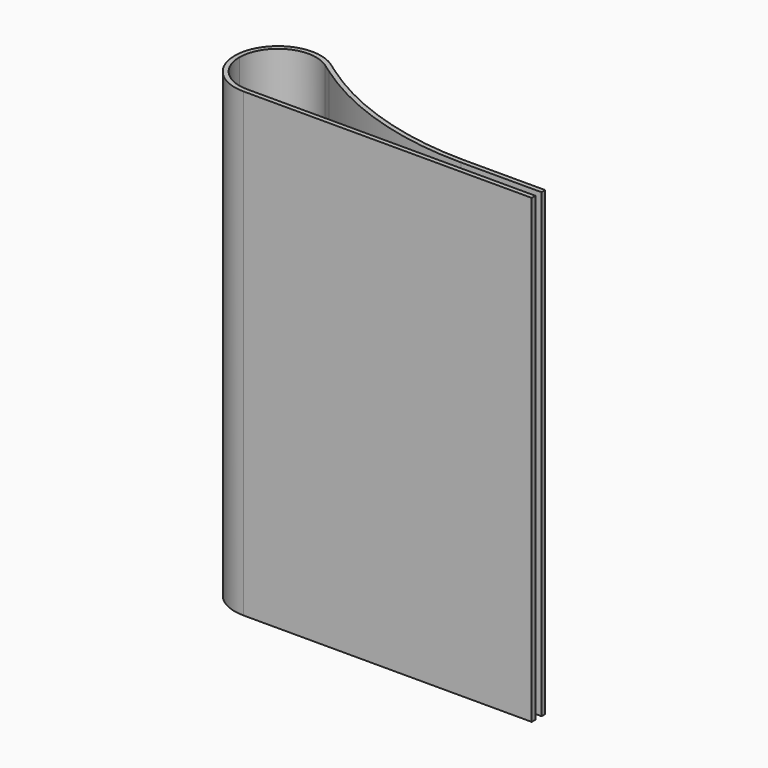
from build123d import *

# Parameters (mm, degrees)
F1_DEPTH = 76.2


with BuildPart() as f1:
    # F0 (on Top) → F1 (new body)
    with BuildSketch(Plane.XY):
        with BuildLine():
            Line((0, -0.762), (0, 0))
            Line((0, 0), (-47.625, 0))
            ThreePointArc((-47.625, 0), (-52.115128, 1.859872), (-53.975, 6.35))
            ThreePointArc((-53.975, 6.35), (-50.553519, 11.984384), (-43.976172, 11.546976))
            Line((-43.976172, 11.546976), (-42.47671, 10.494194))
            ThreePointArc((-42.47671, 10.494194), (-28.592771, 3.63091), (-13.286089, 1.27))
            Line((-13.286089, 1.27), (0, 1.27))
            Line((0, 1.27), (0, 2.032))
            Line((0, 2.032), (-13.286089, 2.032))
            ThreePointArc((-13.286089, 2.032), (-28.363171, 4.357496), (-42.038851, 11.117831))
            Line((-42.038851, 11.117831), (-43.538313, 12.170613))
            ThreePointArc((-43.538313, 12.170613), (-50.904941, 12.66051), (-54.737, 6.35))
            ThreePointArc((-54.737, 6.35), (-52.653943, 1.321057), (-47.625, -0.762))
            Line((-47.625, -0.762), (0, -0.762))
        make_face()
    extrude(amount=F1_DEPTH)


solid = f1.part
